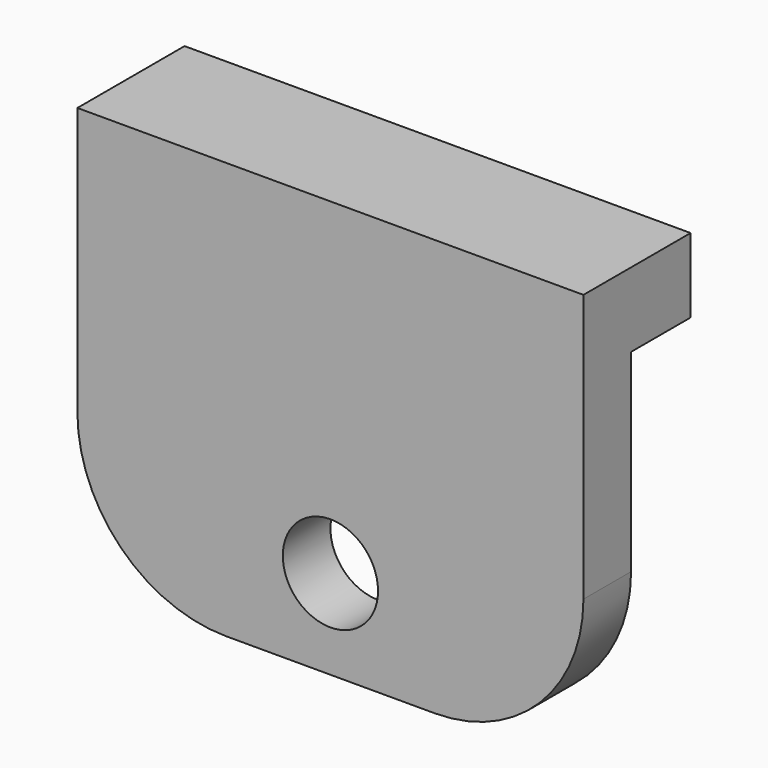
from build123d import *

# Parameters (mm, degrees)
CYLINDER074_R     = 1.6
CYLINDER074_DEPTH = 2
BOX188_W          = 17
BOX188_H          = 2
BOX188_DEPTH      = 14
FILLET042_R       = 5
BOX187_W          = 17
BOX187_H          = 2.5
BOX187_DEPTH      = 2.5


with BuildPart() as cylinder155:
    # Cylinder074 → Cylinder074 (new body)
    with BuildSketch(Plane(origin=(46.5, -19, -9), x_dir=(1, 0, 0), z_dir=(0, -1, 0))):
        Circle(CYLINDER074_R)
    extrude(amount=CYLINDER074_DEPTH)


with BuildPart() as fillet042:
    # Box188 → Box188 (new body)
    with BuildSketch(Plane(origin=(38, -21, -12), x_dir=(1, 0, 0), z_dir=(0, 0, 1))):
        with Locations((8.5, 1)):
            Rectangle(BOX188_W, BOX188_H)
    extrude(amount=BOX188_DEPTH)

    # Cut097: cut Cylinder155
    add(cylinder155.part, mode=Mode.SUBTRACT)

    # Fillet042
    fillet042_edges = [fillet042.edges().sort_by_distance(p)[0] for p in [
        (38, -20, -12),
        (55, -20, -12),
    ]]
    fillet(fillet042_edges, radius=FILLET042_R)


with BuildPart() as fusion059:
    # Box187 → Box187 (new body)
    with BuildSketch(Plane(origin=(38, -19, -0.5), x_dir=(1, 0, 0), z_dir=(0, 0, 1))):
        with Locations((8.5, 1.25)):
            Rectangle(BOX187_W, BOX187_H)
    extrude(amount=BOX187_DEPTH)

    # Fusion059: union Fillet042
    add(fillet042.part)


solid = fusion059.part
